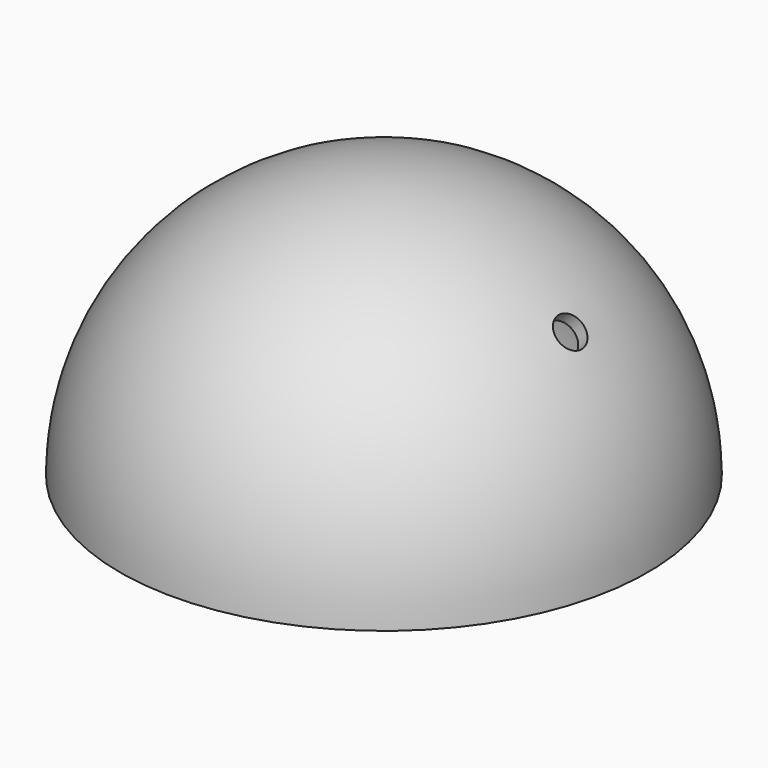
from build123d import *


with BuildPart() as f1:
    # F0 (on Front) → F1 (revolve)
    with BuildSketch(Plane.XZ):
        with BuildLine():
            Line((0, 19.8536554546), (0, 22.1536554546))
            ThreePointArc((0, 22.1536554546), (-15.665, 15.665), (-22.1536554546, 0))
            Line((-22.1536554546, 0), (-19.8536554546, 0))
            ThreePointArc((-19.8536554546, 0), (-14.0386544033, 14.0386544033), (0, 19.8536554546))
        make_face()
    revolve(axis=Axis((0, 0, 21.0036554546), (0, 0, 1)))

    # F3: F2 across plane


with BuildPart() as f2:
    # F0 (on Front) → F2 (revolve)
    with BuildSketch(Plane.XZ):
        with BuildLine():
            ThreePointArc((14.0386544033, 14.0386544033), (12.5449793362, 15.3880189876), (10.9223480336, 16.5792022831))
            Line((10.9223480336, 16.5792022831), (8.4949372388, 14.1517914883))
            Line((8.4949372388, 14.1517914883), (11.3233643635, 11.3233643635))
            Line((11.3233643635, 11.3233643635), (14.0386544033, 14.0386544033))
        make_face()
        with BuildLine():
            ThreePointArc((15.665, 15.665), (15.176552286, 16.1386712808), (14.6737888804, 16.5971193252))
            Line((14.6737888804, 16.5971193252), (13.897233047, 15.8205634919))
            Line((13.897233047, 15.8205634919), (12.0304711447, 17.6873253942))
            Line((12.0304711447, 17.6873253942), (10.9223480336, 16.5792022831))
            ThreePointArc((10.9223480336, 16.5792022831), (12.5449793362, 15.3880189876), (14.0386544033, 14.0386544033))
            Line((14.0386544033, 14.0386544033), (15.665, 15.665))
        make_face()
    revolve(axis=Axis((7.8325, 0, 7.8325), (0.7071067812, 0, 0.7071067812)))


with BuildPart() as f1_1:
    add(f1.part)
    add(f2.part.mirror(Plane.YZ), mode=Mode.SUBTRACT)

    # F4: cut F2
    add(f2.part, mode=Mode.SUBTRACT)


solid = f1_1.part
